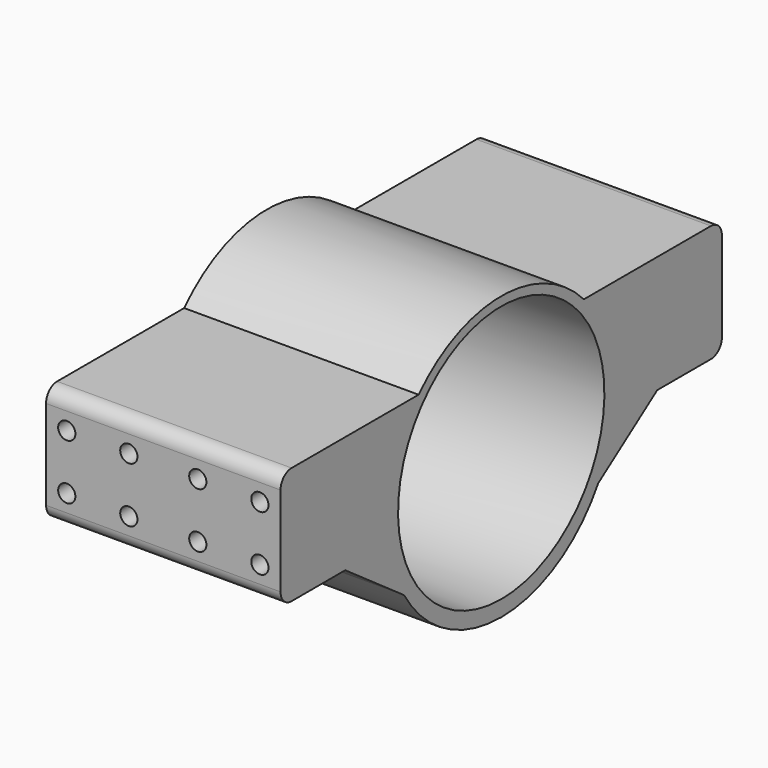
from build123d import *

# Parameters (mm, degrees)
CYLINDER383_R             = 1.25
CYLINDER383_DEPTH         = 10
CYLINDER384_R             = 1.25
CYLINDER384_DEPTH         = 10
CYLINDER385_R             = 1.25
CYLINDER385_DEPTH         = 10
CYLINDER386_R             = 1.25
CYLINDER386_DEPTH         = 10
CYLINDER388_R             = 1.25
CYLINDER388_DEPTH         = 10
CYLINDER387_R             = 1.25
CYLINDER387_DEPTH         = 10
CYLINDER381_R             = 1.25
CYLINDER381_DEPTH         = 10
CYLINDER382_R             = 1.25
CYLINDER382_DEPTH         = 10
BOX267_W                  = 10
BOX267_H                  = 10
BOX267_DEPTH              = 10
CYLINDER377_R             = 1.6
CYLINDER377_DEPTH         = 10
CYLINDER378_R             = 1.6
CYLINDER378_DEPTH         = 10
FUSION322_PLACEMENT_ANGLE = 120
CYLINDER380_R             = 1.6
CYLINDER380_DEPTH         = 10
CYLINDER379_R             = 1.6
CYLINDER379_DEPTH         = 10
CYLINDER375_R             = 1.6
CYLINDER375_DEPTH         = 10
CYLINDER376_R             = 1.6
CYLINDER376_DEPTH         = 10
FUSION321_PLACEMENT_ANGLE = 60
FUSION324_PLACEMENT_ANGLE = 30
CUT276_PLACEMENT_ANGLE    = 90
CYLINDER374_R             = 18.7
CYLINDER374_DEPTH         = 75
CYLINDER373_R             = 7
CYLINDER373_DEPTH         = 10
CYLINDER372_R             = 20.5
CYLINDER372_DEPTH         = 34
BOX266_W                  = 34
BOX266_H                  = 80
BOX266_DEPTH              = 17
CHAMFER026_SIZE           = 8
FILLET103_R               = 2


with BuildPart() as cylinder383:
    # Cylinder383 → Cylinder383 (new body)
    with BuildSketch(Plane(origin=(87.5, 71, 14), x_dir=(1, 0, 0), z_dir=(0, -1, 0))):
        Circle(CYLINDER383_R)
    extrude(amount=CYLINDER383_DEPTH)


with BuildPart() as cylinder384:
    # Cylinder384 → Cylinder384 (new body)
    with BuildSketch(Plane(origin=(87.5, 1, 14), x_dir=(1, 0, 0), z_dir=(0, -1, 0))):
        Circle(CYLINDER384_R)
    extrude(amount=CYLINDER384_DEPTH)


with BuildPart() as fusion332:
    # Fusion332 base: copy of Cylinder384
    add(cylinder384.part)

    # Fusion332: union Cylinder383
    add(cylinder383.part)


with BuildPart() as fusion332_1:
    # Fusion332 placement: moved
    add(fusion332.part.moved(Location((251.5, 0, 0))))


with BuildPart() as cylinder385:
    # Cylinder385 → Cylinder385 (new body)
    with BuildSketch(Plane(origin=(87.5, 71, 14), x_dir=(1, 0, 0), z_dir=(0, -1, 0))):
        Circle(CYLINDER385_R)
    extrude(amount=CYLINDER385_DEPTH)


with BuildPart() as cylinder386:
    # Cylinder386 → Cylinder386 (new body)
    with BuildSketch(Plane(origin=(87.5, 1, 14), x_dir=(1, 0, 0), z_dir=(0, -1, 0))):
        Circle(CYLINDER386_R)
    extrude(amount=CYLINDER386_DEPTH)


with BuildPart() as fusion333:
    # Fusion333 base: copy of Cylinder386
    add(cylinder386.part)

    # Fusion333: union Cylinder385
    add(cylinder385.part)


with BuildPart() as fusion333_1:
    # Fusion333 placement: moved
    add(fusion333.part.moved(Location((261.5, 0, 0))))


with BuildPart() as cylinder388:
    # Cylinder388 → Cylinder388 (new body)
    with BuildSketch(Plane(origin=(87.5, 71, 14), x_dir=(1, 0, 0), z_dir=(0, -1, 0))):
        Circle(CYLINDER388_R)
    extrude(amount=CYLINDER388_DEPTH)


with BuildPart() as cylinder387:
    # Cylinder387 → Cylinder387 (new body)
    with BuildSketch(Plane(origin=(87.5, 1, 14), x_dir=(1, 0, 0), z_dir=(0, -1, 0))):
        Circle(CYLINDER387_R)
    extrude(amount=CYLINDER387_DEPTH)


with BuildPart() as fusion331:
    # Fusion331 base: copy of Cylinder387
    add(cylinder387.part)

    # Fusion331: union Cylinder388
    add(cylinder388.part)


with BuildPart() as fusion331_1:
    # Fusion331 placement: moved
    add(fusion331.part.moved(Location((270.5, 0, 0))))


with BuildPart() as cylinder381:
    # Cylinder381 → Cylinder381 (new body)
    with BuildSketch(Plane(origin=(87.5, 71, 14), x_dir=(1, 0, 0), z_dir=(0, -1, 0))):
        Circle(CYLINDER381_R)
    extrude(amount=CYLINDER381_DEPTH)


with BuildPart() as cylinder382:
    # Cylinder382 → Cylinder382 (new body)
    with BuildSketch(Plane(origin=(87.5, 1, 14), x_dir=(1, 0, 0), z_dir=(0, -1, 0))):
        Circle(CYLINDER382_R)
    extrude(amount=CYLINDER382_DEPTH)


with BuildPart() as fusion330:
    # Fusion334 base: copy of Cylinder382
    add(cylinder382.part)

    # Fusion334: union Cylinder381
    add(cylinder381.part)


with BuildPart() as fusion330_1:
    # Fusion334 placement: moved
    add(fusion330.part.moved(Location((242.5, 0, 0))))

    # Fusion330: union Fusion332, Fusion333, Fusion331
    add(fusion332_1.part)
    add(fusion333_1.part)
    add(fusion331_1.part)


with BuildPart() as fusion330_2:
    # Fusion330 placement: moved
    add(fusion330_1.part.moved(Location((0, 0, -8))))


with BuildPart() as fusion326:
    # Fusion326 base: copy of Cylinder384
    add(cylinder384.part)

    # Fusion326: union Cylinder383
    add(cylinder383.part)


with BuildPart() as fusion326_1:
    # Fusion326 placement: moved
    add(fusion326.part.moved(Location((251.5, 0, 0))))


with BuildPart() as fusion327:
    # Fusion327 base: copy of Cylinder386
    add(cylinder386.part)

    # Fusion327: union Cylinder385
    add(cylinder385.part)


with BuildPart() as fusion327_1:
    # Fusion327 placement: moved
    add(fusion327.part.moved(Location((261.5, 0, 0))))


with BuildPart() as fusion328:
    # Fusion328 base: copy of Cylinder387
    add(cylinder387.part)

    # Fusion328: union Cylinder388
    add(cylinder388.part)


with BuildPart() as fusion328_1:
    # Fusion328 placement: moved
    add(fusion328.part.moved(Location((270.5, 0, 0))))


with BuildPart() as fusion335:
    # Fusion325 base: copy of Cylinder382
    add(cylinder382.part)

    # Fusion325: union Cylinder381
    add(cylinder381.part)


with BuildPart() as fusion335_1:
    # Fusion325 placement: moved
    add(fusion335.part.moved(Location((242.5, 0, 0))))

    # Fusion329: union Fusion326, Fusion327, Fusion328
    add(fusion326_1.part)
    add(fusion327_1.part)
    add(fusion328_1.part)

    # Fusion335: union Fusion330
    add(fusion330_2.part)


with BuildPart() as cube347:
    # Box267 → Box267 (new body)
    with BuildSketch(Plane.XY):
        with Locations((5, 5)):
            Rectangle(BOX267_W, BOX267_H)
    extrude(amount=BOX267_DEPTH)


with BuildPart() as cylinder377:
    # Cylinder377 → Cylinder377 (new body)
    with BuildSketch(Plane(origin=(15.5, 0, 0), x_dir=(1, 0, 0), z_dir=(0, 0, 1))):
        Circle(CYLINDER377_R)
    extrude(amount=CYLINDER377_DEPTH)


with BuildPart() as fusion322:
    # Cylinder378 → Cylinder378 (new body)
    with BuildSketch(Plane(origin=(-15.5, 0, 0), x_dir=(1, 0, 0), z_dir=(0, 0, 1))):
        Circle(CYLINDER378_R)
    extrude(amount=CYLINDER378_DEPTH)

    # Fusion322: union Cylinder377
    add(cylinder377.part)


with BuildPart() as fusion322_1:
    # Fusion322 placement: moved
    add(fusion322.part.rotate(Axis((0, 0, 0), (0, 0, 1)), FUSION322_PLACEMENT_ANGLE))


with BuildPart() as cylinder380:
    # Cylinder380 → Cylinder380 (new body)
    with BuildSketch(Plane(origin=(15.5, 0, 0), x_dir=(1, 0, 0), z_dir=(0, 0, 1))):
        Circle(CYLINDER380_R)
    extrude(amount=CYLINDER380_DEPTH)


with BuildPart() as fusion323:
    # Cylinder379 → Cylinder379 (new body)
    with BuildSketch(Plane(origin=(-15.5, 0, 0), x_dir=(1, 0, 0), z_dir=(0, 0, 1))):
        Circle(CYLINDER379_R)
    extrude(amount=CYLINDER379_DEPTH)

    # Fusion323: union Cylinder380
    add(cylinder380.part)


with BuildPart() as cylinder375:
    # Cylinder375 → Cylinder375 (new body)
    with BuildSketch(Plane(origin=(15.5, 0, 0), x_dir=(1, 0, 0), z_dir=(0, 0, 1))):
        Circle(CYLINDER375_R)
    extrude(amount=CYLINDER375_DEPTH)


with BuildPart() as holes003:
    # Cylinder376 → Cylinder376 (new body)
    with BuildSketch(Plane(origin=(-15.5, 0, 0), x_dir=(1, 0, 0), z_dir=(0, 0, 1))):
        Circle(CYLINDER376_R)
    extrude(amount=CYLINDER376_DEPTH)

    # Fusion321: union Cylinder375
    add(cylinder375.part)


with BuildPart() as holes003_1:
    # Fusion321 placement: moved
    add(holes003.part.rotate(Axis((0, 0, 0), (0, 0, 1)), FUSION321_PLACEMENT_ANGLE))

    # Fusion324: union Fusion322, Fusion323
    add(fusion322_1.part)
    add(fusion323.part)


with BuildPart() as holes003_2:
    # Fusion324 placement: moved
    add(holes003_1.part.rotate(Axis((0, 0, 0), (0, 0, 1)), FUSION324_PLACEMENT_ANGLE))

    # Cut276: cut Cube347
    add(cube347.part, mode=Mode.SUBTRACT)


with BuildPart() as holes003_3:
    # Cut276 placement: moved
    add(holes003_2.part.moved(Location((327, 31, 5))).rotate(Axis((327, 31, 5), (0, 1, 0)), CUT276_PLACEMENT_ANGLE))


with BuildPart() as cylinder374:
    # Cylinder374 → Cylinder374 (new body)
    with BuildSketch(Plane(origin=(336, 31, 5), x_dir=(0, 0, -1), z_dir=(1, 0, 0))):
        Circle(CYLINDER374_R)
    extrude(amount=CYLINDER374_DEPTH)


with BuildPart() as cylinder373:
    # Cylinder373 → Cylinder373 (new body)
    with BuildSketch(Plane(origin=(327, 31, 12), x_dir=(0, 0, -1), z_dir=(1, 0, 0))):
        Circle(CYLINDER373_R)
    extrude(amount=CYLINDER373_DEPTH)


with BuildPart() as cylinder372:
    # Cylinder372 → Cylinder372 (new body)
    with BuildSketch(Plane(origin=(326, 31, 4.5), x_dir=(0, 0, -1), z_dir=(1, 0, 0))):
        Circle(CYLINDER372_R)
    extrude(amount=CYLINDER372_DEPTH)


with BuildPart() as motor_support_wide:
    # Box266 → Box266 (new body)
    with BuildSketch(Plane(origin=(326, -9, 1.5), x_dir=(1, 0, 0), z_dir=(0, 0, 1))):
        with Locations((17, 40)):
            Rectangle(BOX266_W, BOX266_H)
    extrude(amount=BOX266_DEPTH)

    # Fusion336: union Cylinder372
    add(cylinder372.part)

    # Chamfer026
    chamfer026_edges = [motor_support_wide.edges().sort_by_distance(p)[0] for p in [
        (343, 51.2793, 1.5),
        (343, 10.7207, 1.5),
    ]]
    chamfer(chamfer026_edges, length=CHAMFER026_SIZE)

    # Fillet103
    fillet103_edges = [motor_support_wide.edges().sort_by_distance(p)[0] for p in [
        (343, 71, 1.5),
        (343, 71, 18.5),
        (343, -9, 18.5),
        (343, -9, 1.5),
    ]]
    fillet(fillet103_edges, radius=FILLET103_R)


with BuildPart() as motor_support_wide_1:
    # Fillet103 placement: moved
    add(motor_support_wide.part.moved(Location((1, 0, 0))))

    # Cut277: cut Cylinder373
    add(cylinder373.part, mode=Mode.SUBTRACT)

    # Cut278: cut Cylinder374
    add(cylinder374.part, mode=Mode.SUBTRACT)

    # Cut279: cut holes003
    add(holes003_3.part, mode=Mode.SUBTRACT)

    # Cut280: cut Fusion335
    add(fusion335_1.part, mode=Mode.SUBTRACT)


with BuildPart() as motor_support_wide_2:
    # Cut280 placement: moved
    add(motor_support_wide_1.part.moved(Location((86, 0, 0))))


solid = motor_support_wide_2.part
